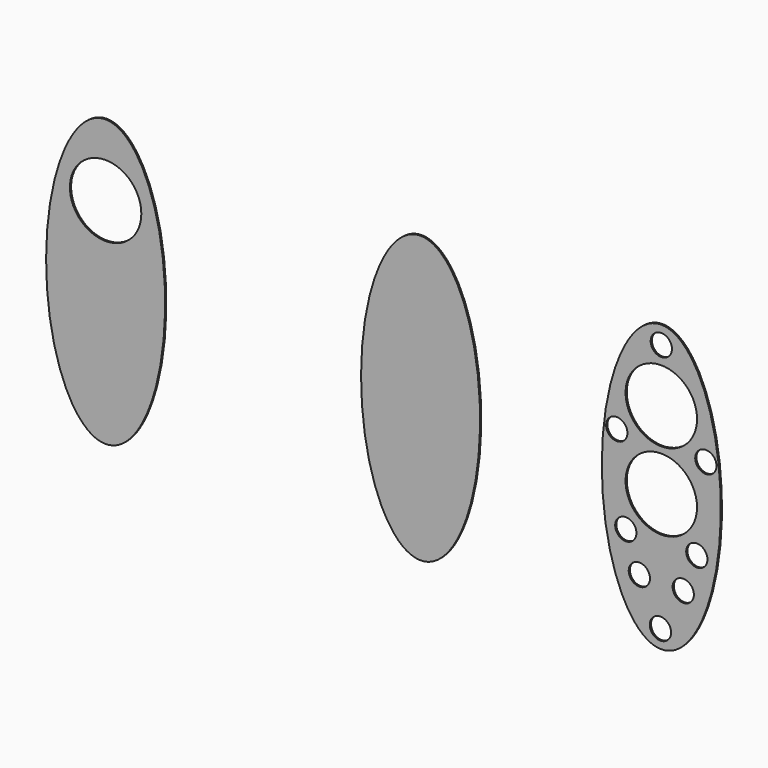
from build123d import *

# Parameters (mm, degrees)
F1_R     = 38.1
F2_DEPTH = 1.5875
F0_R     = 11.3411
F0_R_2   = 11.34165
F0_R_3   = 38.1
F3_DEPTH = 1.5875


with BuildPart() as f2:
    # F1 (on Front) → F2 (new body)
    with BuildSketch(Plane.XZ):
        with BuildLine():
            add(Edge.make_bspline(
                [(26.226221, 152.4), (-83.759006, 152.4), (-28.766392, -76.2), (26.226221, -304.8), (81.218834, -76.2), (136.211447, 152.4), (26.226221, 152.4)],
                knots=[0, 0, 0, 2.094395, 2.094395, 4.18879, 4.18879, 6.283185, 6.283185, 6.283185], degree=2, weights=[1, 0.5, 1, 0.5, 1, 0.5, 1]))
        make_face()
        with BuildLine():
            add(Edge.make_bspline(
                [(-309.74677, 152.4), (-419.731996, 152.4), (-364.739383, -76.2), (-309.74677, -304.8), (-254.754157, -76.2), (-199.761544, 152.4), (-309.74677, 152.4)],
                knots=[0, 0, 0, 2.094395, 2.094395, 4.18879, 4.18879, 6.283185, 6.283185, 6.283185], degree=2, weights=[1, 0.5, 1, 0.5, 1, 0.5, 1]))
        make_face()
        with Locations((-309.74677, 76.2)):
            Circle(F1_R, mode=Mode.SUBTRACT)
    extrude(amount=F2_DEPTH)


with BuildPart() as f3:
    # F0 (on Front) → F3 (new body)
    with BuildSketch(Plane.XZ):
        with BuildLine():
            add(Edge.make_bspline(
                [(283.02294, 152.4), (173.037714, 152.4), (228.030327, -76.2), (283.02294, -304.8), (338.015553, -76.2), (393.008166, 152.4), (283.02294, 152.4)],
                knots=[0, 0, 0, 2.094395, 2.094395, 4.18879, 4.18879, 6.283185, 6.283185, 6.283185], degree=2, weights=[1, 0.5, 1, 0.5, 1, 0.5, 1]))
        make_face()
        with Locations((282.090604, -133.295938)):
            Circle(F0_R, mode=Mode.SUBTRACT)
        with Locations((259.607881, -89.878015)):
            Circle(F0_R_2, mode=Mode.SUBTRACT)
        with Locations((245.142877, -51.993553)):
            Circle(F0_R_2, mode=Mode.SUBTRACT)
        with Locations((306.437999, -89.878015)):
            Circle(F0_R_2, mode=Mode.SUBTRACT)
        with Locations((283.02294, -6.689839)):
            Circle(F0_R_3, mode=Mode.SUBTRACT)
        with Locations((320.903003, -51.993553)):
            Circle(F0_R_2, mode=Mode.SUBTRACT)
        with Locations((235.499576, 38.929176)):
            Circle(F0_R_2, mode=Mode.SUBTRACT)
        with Locations((330.546305, 38.929176)):
            Circle(F0_R_2, mode=Mode.SUBTRACT)
        with Locations((283.02294, 76.2)):
            Circle(F0_R_3, mode=Mode.SUBTRACT)
        with Locations((283.02294, 133.295938)):
            Circle(F0_R, mode=Mode.SUBTRACT)
    extrude(amount=F3_DEPTH)


solid = Compound([f2.part, f3.part])
